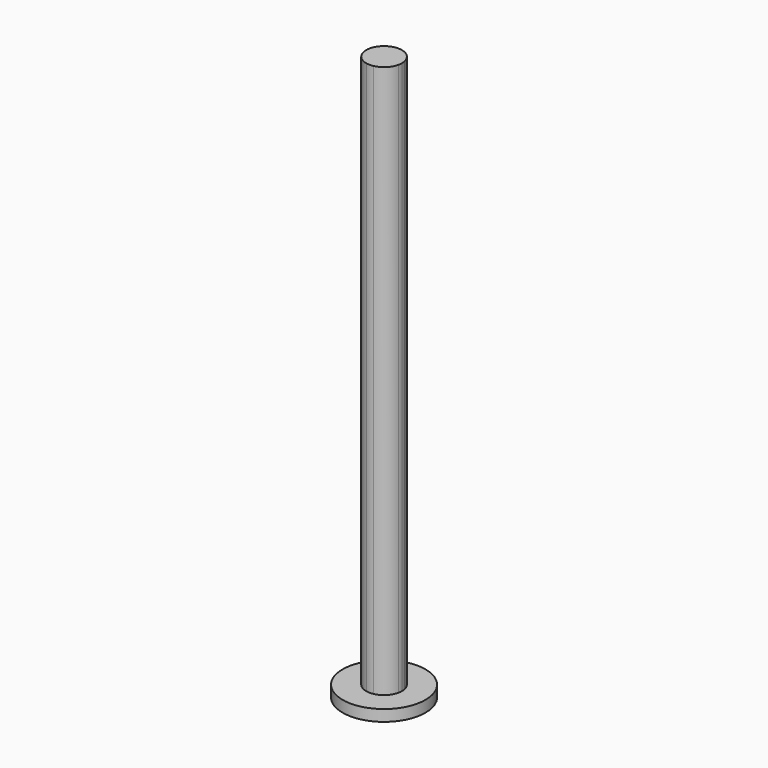
from build123d import *

# Parameters (mm, degrees)
F0_W      = 4
F0_H      = 6
F0_W_2    = 6
F0_H_2    = 4
F1_DEPTH  = 310
F0_R      = 23.2299386705
F0_R_2    = 16.3256900969
F1_FACE_R = 10
F2_DEPTH  = 6.35


with BuildPart() as f1:
    # F0 (on Top) → F1 (new body)
    with BuildSketch(Plane.XY):
        with BuildLine():
            ThreePointArc((-9.7979589711, -2), (-7.0710678119, -7.0710678119), (-2, -9.7979589711))
            Line((-2, -9.7979589711), (-2, -8))
            Line((-2, -8), (-2, -2))
            Line((-2, -2), (-8, -2))
            Line((-8, -2), (-9.7979589711, -2))
        make_face()
        with BuildLine():
            Line((-2, 8), (-2, 9.7979589711))
            ThreePointArc((-2, 9.7979589711), (-7.0710678119, 7.0710678119), (-9.7979589711, 2))
            Line((-9.7979589711, 2), (-8, 2))
            Line((-8, 2), (-2, 2))
            Line((-2, 2), (-2, 8))
        make_face()
        with BuildLine():
            Line((8, 2), (9.7979589711, 2))
            ThreePointArc((9.7979589711, 2), (7.0710678119, 7.0710678119), (2, 9.7979589711))
            Line((2, 9.7979589711), (2, 8))
            Line((2, 8), (2, 2))
            Line((2, 2), (8, 2))
        make_face()
        with BuildLine():
            ThreePointArc((2, -9.7979589711), (7.0710678119, -7.0710678119), (9.7979589711, -2))
            Line((9.7979589711, -2), (8, -2))
            Line((8, -2), (2, -2))
            Line((2, -2), (2, -8))
            Line((2, -8), (2, -9.7979589711))
        make_face()
        with Locations((0, -5)):
            Rectangle(F0_W, F0_H)
        with Locations((5, 0)):
            Rectangle(F0_W_2, F0_H_2)
        with Locations((0, 5)):
            Rectangle(F0_W, F0_H)
        with BuildLine():
            Line((2, 8), (2, 9.7979589711))
            ThreePointArc((2, 9.7979589711), (0, 10), (-2, 9.7979589711))
            Line((-2, 9.7979589711), (-2, 8))
            Line((-2, 8), (2, 8))
        make_face()
        with Locations((-5, 0)):
            Rectangle(F0_W_2, F0_H_2)
        with BuildLine():
            Line((-8, 2), (-9.7979589711, 2))
            ThreePointArc((-9.7979589711, 2), (-10, 0), (-9.7979589711, -2))
            Line((-9.7979589711, -2), (-8, -2))
            Line((-8, -2), (-8, 2))
        make_face()
        Rectangle(F0_W, F0_H_2)
        with BuildLine():
            ThreePointArc((-2, -9.7979589711), (0, -10), (2, -9.7979589711))
            Line((2, -9.7979589711), (2, -8))
            Line((2, -8), (-2, -8))
            Line((-2, -8), (-2, -9.7979589711))
        make_face()
        with BuildLine():
            ThreePointArc((9.7979589711, -2), (9.9493615301, -1.0050896201), (10, 0))
            ThreePointArc((10, 0), (9.9493615301, 1.0050896201), (9.7979589711, 2))
            Line((9.7979589711, 2), (8, 2))
            Line((8, 2), (8, -2))
            Line((8, -2), (9.7979589711, -2))
        make_face()
    extrude(amount=F1_DEPTH)

    # F0 (on Top) + F1_face (on face) → F2 (join)
    with BuildSketch(Plane.XY):
        Circle(F0_R)
        Polygon((10.3425991178, 17.9139071543), (20.6851982355, 0), (10.3425991178, -17.9139071543), (-10.3425991178, -17.9139071543), (-20.6851982355, 0), (-10.3425991178, 17.9139071543), align=None, mode=Mode.SUBTRACT)
        Polygon((10.3425991178, -17.9139071543), (20.6851982355, 0), (10.3425991178, 17.9139071543), (-10.3425991178, 17.9139071543), (-20.6851982355, 0), (-10.3425991178, -17.9139071543), align=None)
        Circle(F0_R_2, mode=Mode.SUBTRACT)
        Circle(F0_R_2)
        with BuildLine():
            ThreePointArc((2, 9.7979589711), (7.0710678119, 7.0710678119), (9.7979589711, 2))
            Line((9.7979589711, 2), (12.5, 2))
            Line((12.5, 2), (12.5, -2))
            Line((12.5, -2), (9.7979589711, -2))
            ThreePointArc((9.7979589711, -2), (7.0710678119, -7.0710678119), (2, -9.7979589711))
            Line((2, -9.7979589711), (2, -12.5))
            Line((2, -12.5), (-2, -12.5))
            Line((-2, -12.5), (-2, -9.7979589711))
            ThreePointArc((-2, -9.7979589711), (-7.0710678119, -7.0710678119), (-9.7979589711, -2))
            Line((-9.7979589711, -2), (-12.5, -2))
            Line((-12.5, -2), (-12.5, 2))
            Line((-12.5, 2), (-9.7979589711, 2))
            ThreePointArc((-9.7979589711, 2), (-7.0710678119, 7.0710678119), (-2, 9.7979589711))
            Line((-2, 9.7979589711), (-2, 12.5))
            Line((-2, 12.5), (2, 12.5))
            Line((2, 12.5), (2, 9.7979589711))
        make_face(mode=Mode.SUBTRACT)
        with BuildLine():
            ThreePointArc((2, -9.7979589711), (7.0710678119, -7.0710678119), (9.7979589711, -2))
            Line((9.7979589711, -2), (8, -2))
            Line((8, -2), (2, -2))
            Line((2, -2), (2, -8))
            Line((2, -8), (2, -9.7979589711))
        make_face()
        with BuildLine():
            Line((8, 2), (9.7979589711, 2))
            ThreePointArc((9.7979589711, 2), (7.0710678119, 7.0710678119), (2, 9.7979589711))
            Line((2, 9.7979589711), (2, 8))
            Line((2, 8), (2, 2))
            Line((2, 2), (8, 2))
        make_face()
        with BuildLine():
            Line((-2, 8), (-2, 9.7979589711))
            ThreePointArc((-2, 9.7979589711), (-7.0710678119, 7.0710678119), (-9.7979589711, 2))
            Line((-9.7979589711, 2), (-8, 2))
            Line((-8, 2), (-2, 2))
            Line((-2, 2), (-2, 8))
        make_face()
        with BuildLine():
            ThreePointArc((-9.7979589711, -2), (-7.0710678119, -7.0710678119), (-2, -9.7979589711))
            Line((-2, -9.7979589711), (-2, -8))
            Line((-2, -8), (-2, -2))
            Line((-2, -2), (-8, -2))
            Line((-8, -2), (-9.7979589711, -2))
        make_face()
        with Locations((0, -5)):
            Rectangle(F0_W, F0_H)
        with Locations((0, 5)):
            Rectangle(F0_W, F0_H)
        with Locations((5, 0)):
            Rectangle(F0_W_2, F0_H_2)
        with Locations((-5, 0)):
            Rectangle(F0_W_2, F0_H_2)
        Rectangle(F0_W, F0_H_2)
        with BuildLine():
            ThreePointArc((9.7979589711, 2), (9.9493615301, 1.0050896201), (10, 0))
            ThreePointArc((10, 0), (9.9493615301, -1.0050896201), (9.7979589711, -2))
            Line((9.7979589711, -2), (12.5, -2))
            Line((12.5, -2), (12.5, 2))
            Line((12.5, 2), (9.7979589711, 2))
        make_face()
        with BuildLine():
            ThreePointArc((-2, 9.7979589711), (0, 10), (2, 9.7979589711))
            Line((2, 9.7979589711), (2, 12.5))
            Line((2, 12.5), (-2, 12.5))
            Line((-2, 12.5), (-2, 9.7979589711))
        make_face()
        with BuildLine():
            ThreePointArc((-9.7979589711, -2), (-10, 0), (-9.7979589711, 2))
            Line((-9.7979589711, 2), (-12.5, 2))
            Line((-12.5, 2), (-12.5, -2))
            Line((-12.5, -2), (-9.7979589711, -2))
        make_face()
        with BuildLine():
            Line((2, -12.5), (2, -9.7979589711))
            ThreePointArc((2, -9.7979589711), (0, -10), (-2, -9.7979589711))
            Line((-2, -9.7979589711), (-2, -12.5))
            Line((-2, -12.5), (2, -12.5))
        make_face()
        with BuildLine():
            ThreePointArc((9.7979589711, -2), (9.9493615301, -1.0050896201), (10, 0))
            ThreePointArc((10, 0), (9.9493615301, 1.0050896201), (9.7979589711, 2))
            Line((9.7979589711, 2), (8, 2))
            Line((8, 2), (8, -2))
            Line((8, -2), (9.7979589711, -2))
        make_face()
        with BuildLine():
            ThreePointArc((-2, -9.7979589711), (0, -10), (2, -9.7979589711))
            Line((2, -9.7979589711), (2, -8))
            Line((2, -8), (-2, -8))
            Line((-2, -8), (-2, -9.7979589711))
        make_face()
        with BuildLine():
            Line((2, 8), (2, 9.7979589711))
            ThreePointArc((2, 9.7979589711), (0, 10), (-2, 9.7979589711))
            Line((-2, 9.7979589711), (-2, 8))
            Line((-2, 8), (2, 8))
        make_face()
        with BuildLine():
            Line((-8, 2), (-9.7979589711, 2))
            ThreePointArc((-9.7979589711, 2), (-10, 0), (-9.7979589711, -2))
            Line((-9.7979589711, -2), (-8, -2))
            Line((-8, -2), (-8, 2))
        make_face()
    with BuildSketch(Plane(origin=(0, 0, 0), x_dir=(1, 0, 0), z_dir=(0, 0, -1))):
        Circle(F1_FACE_R)
    extrude(amount=-F2_DEPTH, dir=(0, 0, 1))


solid = f1.part
